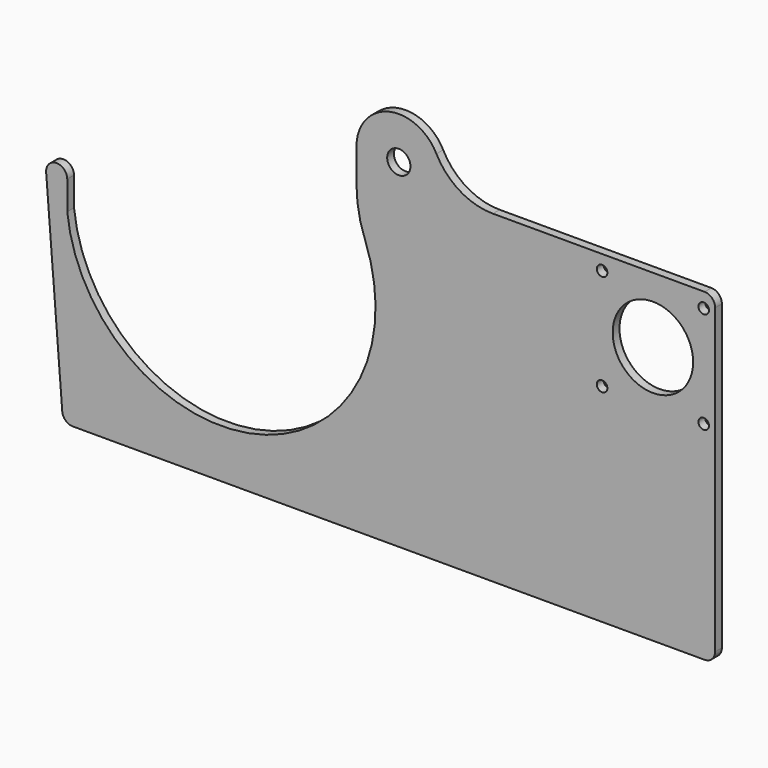
from build123d import *

# Parameters (mm, degrees)
PAD_DEPTH     = 4
SKETCH002_R   = 19
SKETCH002_R_2 = 2.5
SKETCH002_R_3 = 5.5
POCKET_DEPTH  = 4.001
FILLET001_R   = 5


with BuildPart() as part:
    # Sketch001 → Pad (new body)
    with BuildSketch(Plane.XZ):
        with BuildLine():
            Line((-82.604054, 6), (-74.604054, -96))
            Line((-74.604054, -96), (233.395946, -96))
            Line((233.395946, -96), (233.395946, 57))
            Line((233.395946, 57), (128.395946, 57))
            ThreePointArc((101.758378, 73.2), (112.807488, 61.367989), (128.395946, 57))
            ThreePointArc((101.758378, 73.2), (79.265423, 83.431515), (64, 64))
            Line((64, 64), (64, 48.093659))
            ThreePointArc((64, 48.093659), (65.023772, 37.057151), (68.06015, 26.397271))
            ThreePointArc((-72.604054, -7.592846), (17.146247, -70.957778), (68.06015, 26.397271))
            Line((-72.604054, 6), (-72.604054, -7.592846))
            ThreePointArc((-72.604054, 6), (-77.604054, 11), (-82.604054, 6))
        make_face()
    extrude(amount=PAD_DEPTH)

    # Sketch002 → Pocket (cut, through all)
    with BuildSketch(Plane.XZ.offset(4)):
        with Locations((204, 26)):
            Circle(SKETCH002_R)
        with Locations((180, 50)):
            Circle(SKETCH002_R_2)
        with Locations((228, 50)):
            Circle(SKETCH002_R_2)
        with Locations((228, 2)):
            Circle(SKETCH002_R_2)
        with Locations((180, 2)):
            Circle(SKETCH002_R_2)
        with Locations((84, 64)):
            Circle(SKETCH002_R_3)
    extrude(amount=-POCKET_DEPTH, mode=Mode.SUBTRACT)

    # Fillet001
    fillet001_edges = [part.edges().sort_by_distance(p)[0] for p in [
        (233.395946, -2, 57),
        (233.395946, -2, -96),
        (-74.604054, -2, -96),
    ]]
    fillet(fillet001_edges, radius=FILLET001_R)


with BuildPart() as part_1:
    # Body004 placement: moved
    add(part.part.moved(Location((0, 9, 0))))


solid = part_1.part
